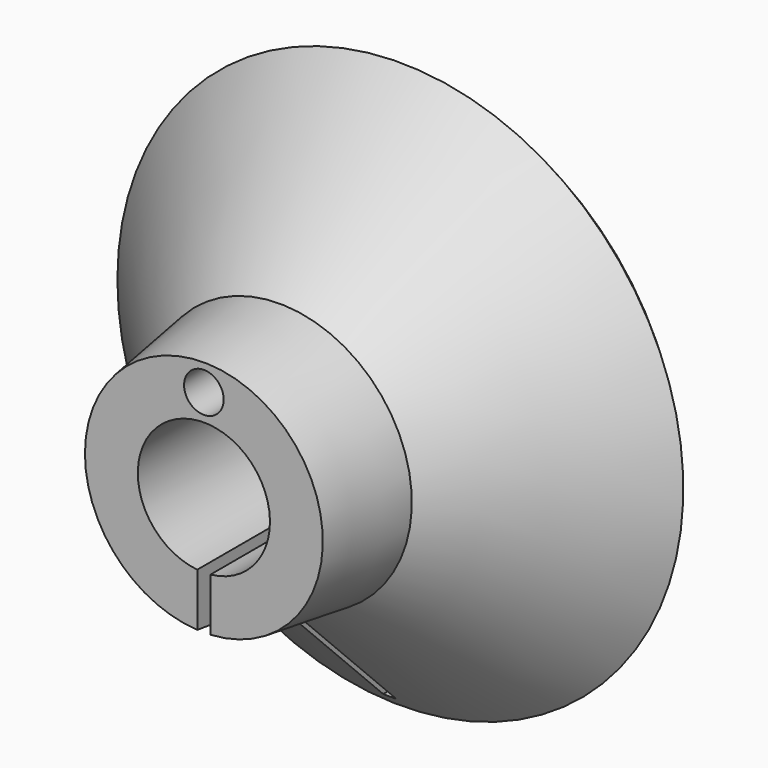
from build123d import *

# Parameters (mm, degrees)
F2_R     = 1.5
F3_DEPTH = 20.001
F4_W     = 1
F4_H     = 20.408089
F5_DEPTH = 25


with BuildPart() as f1:
    # F0 (on Top) → F1 (revolve)
    with BuildSketch(Plane.XY):
        Polygon((-10, 10), (-20, 20), (-21.414214, 18.585786), (-10, 7.171573), (-9, 0), (-5, 0), (-5, 10), align=None)
    revolve(axis=Axis((0, -1.348249, 0), (0, -1, 0)))

    # F2 (on face) → F3 (cut, through all)
    with BuildSketch(Plane.XZ):
        with Locations((0, 7)):
            Circle(F2_R)
    extrude(amount=-F3_DEPTH, mode=Mode.SUBTRACT)

    # F4 (on face) → F5 (cut)
    with BuildSketch(Plane.XZ):
        with Locations((0, -10.204045)):
            Rectangle(F4_W, F4_H)
    extrude(amount=-F5_DEPTH, mode=Mode.SUBTRACT)


solid = f1.part
